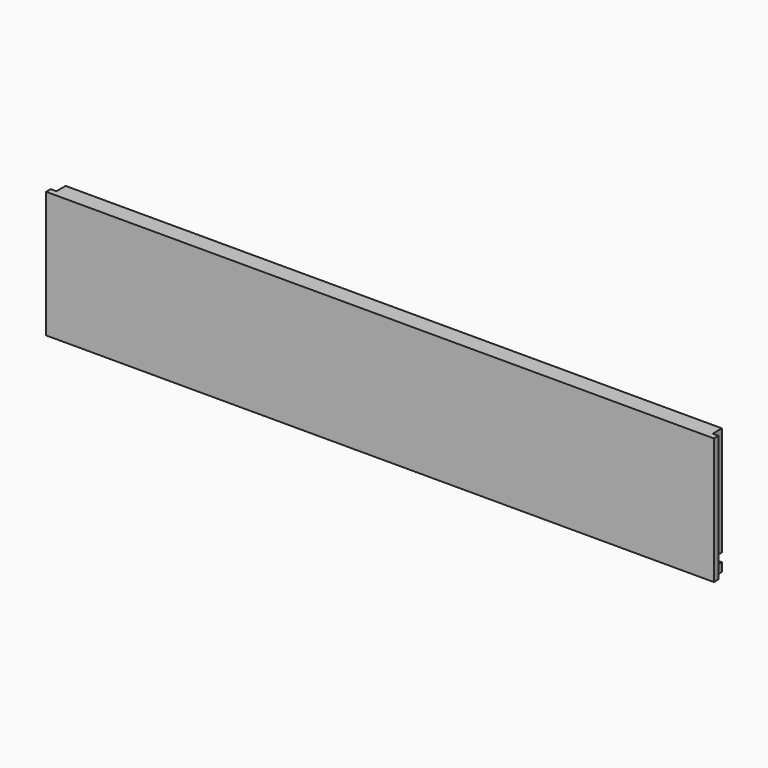
from build123d import *

# Parameters (mm, degrees)
SKETCH059_W             = 464.6
SKETCH059_H             = 88
PAD022_DEPTH            = 12
SKETCH060_W             = 4
SKETCH060_H             = 88
POCKET036_DEPTH         = 8
SKETCH061_W             = 456.6
SKETCH061_H             = 6
POCKET037_DEPTH         = 6
BODY021_PLACEMENT_ANGLE = 90


with BuildPart() as part:
    # Sketch059 → Pad022 (new body)
    with BuildSketch(Plane.XY):
        with Locations((0, 44)):
            Rectangle(SKETCH059_W, SKETCH059_H)
    extrude(amount=PAD022_DEPTH)

    # Sketch060 (on Face5 of Pad022) → Pocket036 (cut)
    with BuildSketch(Plane(origin=(0, 0, 0), x_dir=(1, 0, 0), z_dir=(0, 0, -1))):
        with Locations((-230.3, -44)):
            Rectangle(SKETCH060_W, SKETCH060_H)
    pocket036 = extrude(amount=-POCKET036_DEPTH, mode=Mode.SUBTRACT)

    # Mirrored013: Pocket036 across Sketch060 V_Axis
    add(pocket036.mirror(Plane(origin=(0, 0, 0), x_dir=(0, 0, -1), z_dir=(1, 0, 0))), mode=Mode.SUBTRACT)

    # Sketch061 (on Face3 of Mirrored013) → Pocket037 (cut)
    with BuildSketch(Plane(origin=(0, 0, 0), x_dir=(1, 0, 0), z_dir=(0, 0, -1))):
        with Locations((0, -9)):
            Rectangle(SKETCH061_W, SKETCH061_H)
    extrude(amount=-POCKET037_DEPTH, mode=Mode.SUBTRACT)


with BuildPart() as part_1:
    # Body021 placement: moved
    add(part.part.rotate(Axis((0, 0, 0), (1, 0, 0)), BODY021_PLACEMENT_ANGLE))


solid = part_1.part
